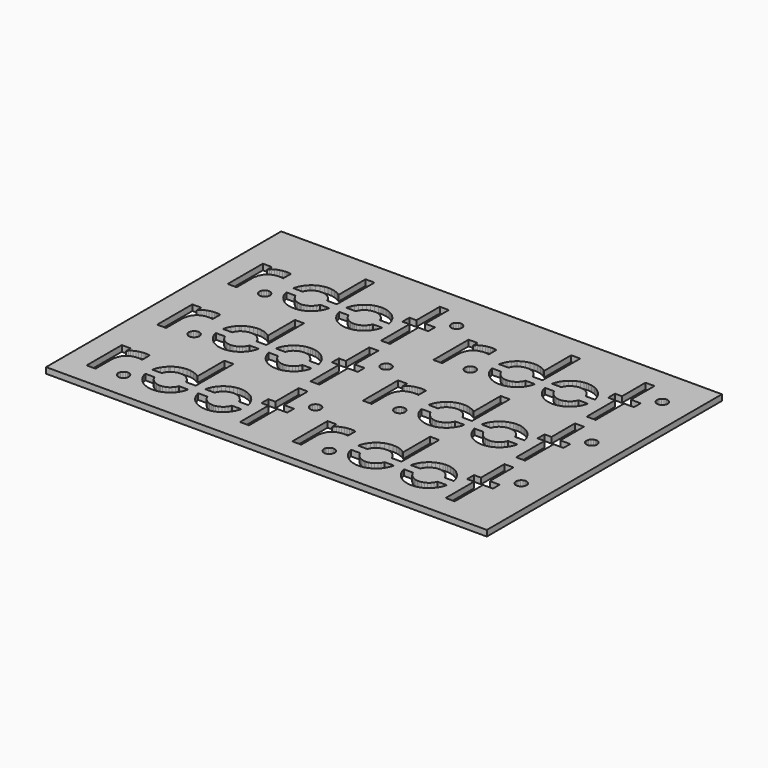
from build123d import *

# Parameters (mm, degrees)
F0_W     = 150
F0_H     = 100
F1_DEPTH = 2


with BuildPart() as f1:
    # F0 (on Top) → F1 (new body)
    with BuildSketch(Plane.XY):
        with Locations((35, 30)):
            Rectangle(F0_W, F0_H)
        Polygon((-19.297476, -10.472411), (-19.297476, -10.64914), (-19.297476, -10.825877), (-19.440179, -11.356072), (-19.829512, -11.933215), (-20.406661, -12.32254), (-20.936788, -12.465257), (-21.113157, -12.465257), (-21.289934, -12.465257), (-21.820061, -12.32254), (-22.397279, -11.933215), (-22.786611, -11.356072), (-22.928906, -10.825877), (-22.928906, -10.64914), (-22.928906, -10.472411), (-22.786611, -9.942222), (-22.397279, -9.365072), (-21.820061, -8.975747), (-21.289934, -8.833398), (-21.113157, -8.833398), (-20.936788, -8.833398), (-20.406661, -8.975747), (-19.829512, -9.365072), (-19.440179, -9.942222), align=None, mode=Mode.SUBTRACT)
        Polygon((-16.877523, -7.176272), (-17.023821, -6.500013), (-13.906778, -6.500013), (-13.826582, -6.693412), (-13.702347, -6.993627), (-13.149254, -7.819975), (-12.193812, -8.682926), (-11.030653, -9.235665), (-10.055653, -9.430515), (-9.73038, -9.430515), (-9.73113, -9.426822), (-9.508148, -9.426822), (-8.83818, -9.3366), (-8.00595, -9.078535), (-7.253182, -8.670353), (-6.596844, -8.129438), (-6.055267, -7.473536), (-5.646308, -6.721135), (-5.577419, -6.500013), (-2.428586, -6.500013), (-2.682598, -7.475389), (-3.187987, -8.601584), (-3.867155, -9.623887), (-4.704223, -10.521593), (-5.682904, -11.273987), (-6.78691, -11.860746), (-7.69015, -12.187586), (-7.999681, -12.261534), (-8.309075, -12.335107), (-9.262949, -12.450469), (-10.512997, -12.424586), (-11.725768, -12.193876), (-12.877478, -11.770163), (-13.944888, -11.163804), (-14.903601, -10.386271), (-15.730243, -9.448629), (-16.257576, -8.645588), (-16.400551, -8.361633), (-16.544072, -8.077304), align=None, mode=Mode.SUBTRACT)
        Polygon((-22.698291, 2.438883), (-22.698291, -0.774796), (-22.811009, -0.745561), (-23.38332, -0.646814), (-23.963059, -0.611717), (-24.079184, -0.614375), (-24.348303, -0.614375), (-25.155454, -0.694518), (-26.134489, -0.938557), (-27.001869, -1.349697), (-27.743182, -1.931686), (-28.344729, -2.687793), (-28.792103, -3.622791), (-29.070878, -4.739404), (-29.166634, -5.716211), (-29.166634, -6.04194), (-29.166634, -12.494833), (-32.205076, -12.494833), (-32.205076, 2.471458), (-29.166634, 2.471458), (-29.166634, 0.520025), (-29.102683, 0.651279), (-28.8361, 1.008786), (-28.367286, 1.437645), (-27.7857, 1.80517), (-27.116863, 2.109862), (-26.38627, 2.349813), (-25.619456, 2.523182), (-24.841902, 2.62854), (-24.269932, 2.663705), (-24.079184, 2.663705), (-23.891708, 2.663705), (-23.329346, 2.611912), (-22.795062, 2.479227), align=None, mode=Mode.SUBTRACT)
        Polygon((-5.296161, 12.499987), (-2.224095, 12.499987), (-2.255947, -3.500013), (-5.584221, -3.500013), (-6.043818, -2.532823), (-6.907124, -1.57745), (-7.733424, -1.024356), (-8.033618, -0.900122), (-8.33429, -0.775546), (-9.309563, -0.582209), (-10.595457, -0.647563), (-11.808978, -1.079488), (-12.636028, -1.631082), (-12.865688, -1.861016), (-13.095553, -2.090608), (-13.647284, -2.917794), (-13.854469, -3.500013), (-17.052445, -3.500013), (-16.710831, -2.323948), (-16.176547, -1.211015), (-15.455604, -0.189469), (-14.796744, 0.509598), (-14.553454, 0.714794), (-14.310505, 0.920398), (-13.511532, 1.453592), (-12.383878, 1.993737), (-11.197822, 2.334684), (-9.978441, 2.475478), (-8.752449, 2.415576), (-7.546016, 2.153886), (-6.385379, 1.689454), (-5.5524, 1.210301), (-5.296161, 1.021394), align=None, mode=Mode.SUBTRACT)
        Polygon((1.244664, -7.496461), (0.970011, -6.500013), (4.110563, -6.500013), (4.189225, -6.689712), (4.31346, -6.989933), (4.866553, -7.816275), (5.822336, -8.679226), (6.985494, -9.231972), (7.960427, -9.426822), (8.285836, -9.426822), (8.509091, -9.426822), (9.179059, -9.3366), (10.011288, -9.078167), (10.764465, -8.669249), (11.420736, -8.127591), (11.962039, -7.471689), (12.37093, -6.718552), (12.438805, -6.500013), (15.584578, -6.500013), (15.429026, -7.183666), (15.033765, -8.200053), (14.498049, -9.143978), (13.831012, -10.000646), (13.043147, -10.754518), (12.144336, -11.391196), (11.402267, -11.789387), (11.144598, -11.896244), (10.886519, -12.002726), (10.080527, -12.246003), (8.994172, -12.431237), (7.903932, -12.455273), (6.826913, -12.32143), (5.780493, -12.032671), (4.782253, -11.593433), (3.850186, -11.007042), (3.198755, -10.473896), (3.001328, -10.276456), (2.803834, -10.078655), (2.270299, -9.42719), (1.68395, -8.494734), align=None, mode=Mode.SUBTRACT)
        Polygon((8.0067, 2.479227), (8.285836, 2.479227), (8.662288, 2.479227), (9.791373, 2.327596), (11.194142, 1.892059), (12.463067, 1.202941), (13.568845, 0.290433), (14.481012, -0.81514), (15.17013, -2.084406), (15.605395, -3.487107), (15.607131, -3.500013), (12.4332, -3.500013), (11.971989, -2.529143), (11.109092, -1.57377), (10.282792, -1.020676), (9.982529, -0.896442), (9.681926, -0.771866), (8.706585, -0.578461), (7.420623, -0.643883), (6.207239, -1.075808), (5.38012, -1.627811), (5.150528, -1.857676), (4.920527, -2.087337), (4.368524, -2.914387), (4.160137, -3.500013), (0.97959, -3.500013), (1.031359, -3.196522), (1.275059, -2.390461), (1.381915, -2.13286), (1.488704, -1.874713), (1.886623, -1.132644), (2.523607, -0.233834), (3.277875, 0.553622), (4.134161, 1.22066), (5.078018, 1.756375), (6.094453, 2.151637), (7.168882, 2.396017), align=None, mode=Mode.SUBTRACT)
        Polygon((19.982573, 12.499987), (23.05464, 12.499987), (23.05464, 2.444471), (26.407001, 2.444471), (26.407001, -0.419129), (23.05464, -0.419129), (23.05464, -12.500013), (19.982573, -12.500013), (19.982573, -0.419129), (17.607802, -0.419129), (17.607802, 2.513914), (19.982573, 2.513914), align=None, mode=Mode.SUBTRACT)
        Polygon((-22.795062, 32.479227), (-22.698291, 32.438883), (-22.698291, 29.225204), (-22.811009, 29.254439), (-23.38332, 29.353186), (-23.963059, 29.388283), (-24.079184, 29.385625), (-24.348303, 29.385625), (-25.155454, 29.305482), (-26.134489, 29.061443), (-27.001869, 28.650303), (-27.743182, 28.068314), (-28.344729, 27.312207), (-28.792103, 26.377209), (-29.070878, 25.260596), (-29.166634, 24.283789), (-29.166634, 23.95806), (-29.166634, 17.505167), (-32.205076, 17.505167), (-32.205076, 32.471458), (-29.166634, 32.471458), (-29.166634, 30.520025), (-29.102683, 30.651279), (-28.8361, 31.008786), (-28.367286, 31.437645), (-27.7857, 31.80517), (-27.116863, 32.109862), (-26.38627, 32.349813), (-25.619456, 32.523182), (-24.841902, 32.62854), (-24.269932, 32.663705), (-24.079184, 32.663705), (-23.891708, 32.663705), (-23.329346, 32.611912), align=None, mode=Mode.SUBTRACT)
        Polygon((-22.786611, 20.057778), (-22.397279, 20.634928), (-21.820061, 21.024253), (-21.289934, 21.166602), (-21.113157, 21.166602), (-20.936788, 21.166602), (-20.406661, 21.024253), (-19.829512, 20.634928), (-19.440179, 20.057778), (-19.297476, 19.527589), (-19.297476, 19.35086), (-19.297476, 19.174123), (-19.440179, 18.643928), (-19.829512, 18.066785), (-20.406661, 17.67746), (-20.936788, 17.534743), (-21.113157, 17.534743), (-21.289934, 17.534743), (-21.820061, 17.67746), (-22.397279, 18.066785), (-22.786611, 18.643928), (-22.928906, 19.174123), (-22.928906, 19.35086), (-22.928906, 19.527589), align=None, mode=Mode.SUBTRACT)
        Polygon((-5.646308, 23.278865), (-5.577419, 23.499987), (-2.428586, 23.499987), (-2.682598, 22.524611), (-3.187987, 21.398416), (-3.867155, 20.376113), (-4.704223, 19.478407), (-5.682904, 18.726013), (-6.78691, 18.139254), (-7.69015, 17.812414), (-7.999681, 17.738466), (-8.309075, 17.664893), (-9.262949, 17.549531), (-10.512997, 17.575414), (-11.725768, 17.806124), (-12.877478, 18.229837), (-13.944888, 18.836196), (-14.903601, 19.613729), (-15.730243, 20.551371), (-16.257576, 21.354412), (-16.400551, 21.638367), (-16.544072, 21.922696), (-16.877523, 22.823728), (-17.023821, 23.499987), (-13.906778, 23.499987), (-13.826582, 23.306588), (-13.702347, 23.006373), (-13.149254, 22.180025), (-12.193812, 21.317074), (-11.030653, 20.764335), (-10.055653, 20.569485), (-9.73038, 20.569485), (-9.73113, 20.573178), (-9.508148, 20.573178), (-8.83818, 20.6634), (-8.00595, 20.921465), (-7.253182, 21.329647), (-6.596844, 21.870562), (-6.055267, 22.526464), align=None, mode=Mode.SUBTRACT)
        Polygon((32.205076, 6.841685), (32.205076, 6.664976), (32.205076, 6.488131), (32.062373, 5.958003), (31.673109, 5.380785), (31.095891, 4.991521), (30.565763, 4.848818), (30.389327, 4.848818), (30.212618, 4.848818), (29.682491, 4.991521), (29.105273, 5.380785), (28.716009, 5.958003), (28.573646, 6.488131), (28.573646, 6.664976), (28.573646, 6.841685), (28.716009, 7.371812), (29.105273, 7.948962), (29.682491, 8.338294), (30.212618, 8.480657), (30.389327, 8.480657), (30.565763, 8.480657), (31.095891, 8.338294), (31.673109, 7.948962), (32.062373, 7.371812), align=None, mode=Mode.SUBTRACT)
        Polygon((1.244664, 22.503539), (0.970011, 23.499987), (4.110563, 23.499987), (4.189225, 23.310288), (4.31346, 23.010067), (4.866553, 22.183725), (5.822336, 21.320774), (6.985494, 20.768028), (7.960427, 20.573178), (8.285836, 20.573178), (8.509091, 20.573178), (9.179059, 20.6634), (10.011288, 20.921833), (10.764465, 21.330751), (11.420736, 21.872409), (11.962039, 22.528311), (12.37093, 23.281448), (12.438805, 23.499987), (15.584578, 23.499987), (15.429026, 22.816334), (15.033765, 21.799947), (14.498049, 20.856022), (13.831012, 19.999354), (13.043147, 19.245482), (12.144336, 18.608804), (11.402267, 18.210613), (11.144598, 18.103756), (10.886519, 17.997274), (10.080527, 17.753997), (8.994172, 17.568763), (7.903932, 17.544727), (6.826913, 17.67857), (5.780493, 17.967329), (4.782253, 18.406567), (3.850186, 18.992958), (3.198755, 19.526104), (3.001328, 19.723544), (2.803834, 19.921345), (2.270299, 20.57281), (1.68395, 21.505266), align=None, mode=Mode.SUBTRACT)
        Polygon((15.607131, 26.499987), (12.4332, 26.499987), (11.971989, 27.470857), (11.109092, 28.42623), (10.282792, 28.979324), (9.982529, 29.103558), (9.681926, 29.228134), (8.706585, 29.421539), (7.420623, 29.356117), (6.207239, 28.924192), (5.38012, 28.372189), (5.150528, 28.142324), (4.920527, 27.912663), (4.368524, 27.085613), (4.160137, 26.499987), (0.97959, 26.499987), (1.031359, 26.803478), (1.275059, 27.609539), (1.381915, 27.86714), (1.488704, 28.125287), (1.886623, 28.867356), (2.523607, 29.766166), (3.277875, 30.553622), (4.134161, 31.22066), (5.078018, 31.756375), (6.094453, 32.151637), (7.168882, 32.396017), (8.0067, 32.479227), (8.285836, 32.479227), (8.662288, 32.479227), (9.791373, 32.327596), (11.194142, 31.892059), (12.463067, 31.202941), (13.568845, 30.290433), (14.481012, 29.18486), (15.17013, 27.915594), (15.605395, 26.512893), align=None, mode=Mode.SUBTRACT)
        Polygon((19.982573, 17.499987), (19.982573, 29.580871), (17.607802, 29.580871), (17.607802, 32.513914), (19.982573, 32.513914), (19.982573, 42.499987), (23.05464, 42.499987), (23.05464, 32.444471), (26.407001, 32.444471), (26.407001, 29.580871), (23.05464, 29.580871), (23.05464, 17.499987), align=None, mode=Mode.SUBTRACT)
        Polygon((47.213389, -9.942222), (47.602721, -9.365072), (48.179939, -8.975747), (48.710066, -8.833398), (48.886843, -8.833398), (49.063212, -8.833398), (49.593339, -8.975747), (50.170488, -9.365072), (50.559821, -9.942222), (50.702524, -10.472411), (50.702524, -10.64914), (50.702524, -10.825877), (50.559821, -11.356072), (50.170488, -11.933215), (49.593339, -12.32254), (49.063212, -12.465257), (48.886843, -12.465257), (48.710066, -12.465257), (48.179939, -12.32254), (47.602721, -11.933215), (47.213389, -11.356072), (47.071094, -10.825877), (47.071094, -10.64914), (47.071094, -10.472411), align=None, mode=Mode.SUBTRACT)
        Polygon((64.353692, -6.721135), (64.422581, -6.500013), (67.571414, -6.500013), (67.317402, -7.475389), (66.812013, -8.601584), (66.132845, -9.623887), (65.295777, -10.521593), (64.317096, -11.273987), (63.21309, -11.860746), (62.30985, -12.187586), (62.000319, -12.261534), (61.690925, -12.335107), (60.737051, -12.450469), (59.487003, -12.424586), (58.274232, -12.193876), (57.122522, -11.770163), (56.055112, -11.163804), (55.096399, -10.386271), (54.269757, -9.448629), (53.742424, -8.645588), (53.599449, -8.361633), (53.455928, -8.077304), (53.122477, -7.176272), (52.976179, -6.500013), (56.093222, -6.500013), (56.173418, -6.693412), (56.297653, -6.993627), (56.850746, -7.819975), (57.806188, -8.682926), (58.969347, -9.235665), (59.944347, -9.430515), (60.26962, -9.430515), (60.26887, -9.426822), (60.491852, -9.426822), (61.16182, -9.3366), (61.99405, -9.078535), (62.746818, -8.670353), (63.403156, -8.129438), (63.944733, -7.473536), align=None, mode=Mode.SUBTRACT)
        Polygon((47.204938, 2.479227), (47.301709, 2.438883), (47.301709, -0.774796), (47.188991, -0.745561), (46.61668, -0.646814), (46.036941, -0.611717), (45.920816, -0.614375), (45.651697, -0.614375), (44.844546, -0.694518), (43.865511, -0.938557), (42.998131, -1.349697), (42.256818, -1.931686), (41.655271, -2.687793), (41.207897, -3.622791), (40.929122, -4.739404), (40.833366, -5.716211), (40.833366, -6.04194), (40.833366, -12.494833), (37.794924, -12.494833), (37.794924, 2.471458), (40.833366, 2.471458), (40.833366, 0.520025), (40.897317, 0.651279), (41.1639, 1.008786), (41.632714, 1.437645), (42.2143, 1.80517), (42.883137, 2.109862), (43.61373, 2.349813), (44.380544, 2.523182), (45.158098, 2.62854), (45.730068, 2.663705), (45.920816, 2.663705), (46.108292, 2.663705), (46.670654, 2.611912), align=None, mode=Mode.SUBTRACT)
        Polygon((56.145531, -3.500013), (52.947555, -3.500013), (53.289169, -2.323948), (53.823453, -1.211015), (54.544396, -0.189469), (55.203256, 0.509598), (55.446546, 0.714794), (55.689495, 0.920398), (56.488468, 1.453592), (57.616122, 1.993737), (58.802178, 2.334684), (60.021559, 2.475478), (61.247551, 2.415576), (62.453984, 2.153886), (63.614621, 1.689454), (64.4476, 1.210301), (64.703839, 1.021394), (64.703839, 12.499987), (67.775905, 12.499987), (67.744053, -3.500013), (64.415779, -3.500013), (63.956182, -2.532823), (63.092876, -1.57745), (62.266576, -1.024356), (61.966382, -0.900122), (61.66571, -0.775546), (60.690437, -0.582209), (59.404543, -0.647563), (58.191022, -1.079488), (57.363972, -1.631082), (57.134312, -1.861016), (56.904447, -2.090608), (56.352716, -2.917794), align=None, mode=Mode.SUBTRACT)
        Polygon((71.244664, -7.496461), (70.970011, -6.500013), (74.110563, -6.500013), (74.189225, -6.689712), (74.31346, -6.989933), (74.866553, -7.816275), (75.822336, -8.679226), (76.985494, -9.231972), (77.960427, -9.426822), (78.285836, -9.426822), (78.509091, -9.426822), (79.179059, -9.3366), (80.011288, -9.078167), (80.764465, -8.669249), (81.420736, -8.127591), (81.962039, -7.471689), (82.37093, -6.718552), (82.438805, -6.500013), (85.584578, -6.500013), (85.429026, -7.183666), (85.033765, -8.200053), (84.498049, -9.143978), (83.831012, -10.000646), (83.043147, -10.754518), (82.144336, -11.391196), (81.402267, -11.789387), (81.144598, -11.896244), (80.886519, -12.002726), (80.080527, -12.246003), (78.994172, -12.431237), (77.903932, -12.455273), (76.826913, -12.32143), (75.780493, -12.032671), (74.782253, -11.593433), (73.850186, -11.007042), (73.198755, -10.473896), (73.001328, -10.276456), (72.803834, -10.078655), (72.270299, -9.42719), (71.68395, -8.494734), align=None, mode=Mode.SUBTRACT)
        Polygon((85.607131, -3.500013), (82.4332, -3.500013), (81.971989, -2.529143), (81.109092, -1.57377), (80.282792, -1.020676), (79.982529, -0.896442), (79.681926, -0.771866), (78.706585, -0.578461), (77.420623, -0.643883), (76.207239, -1.075808), (75.38012, -1.627811), (75.150528, -1.857676), (74.920527, -2.087337), (74.368524, -2.914387), (74.160137, -3.500013), (70.97959, -3.500013), (71.031359, -3.196522), (71.275059, -2.390461), (71.381915, -2.13286), (71.488704, -1.874713), (71.886623, -1.132644), (72.523607, -0.233834), (73.277875, 0.553622), (74.134161, 1.22066), (75.078018, 1.756375), (76.094453, 2.151637), (77.168882, 2.396017), (78.0067, 2.479227), (78.285836, 2.479227), (78.662288, 2.479227), (79.791373, 2.327596), (81.194142, 1.892059), (82.463067, 1.202941), (83.568845, 0.290433), (84.481012, -0.81514), (85.17013, -2.084406), (85.605395, -3.487107), align=None, mode=Mode.SUBTRACT)
        Polygon((89.982573, -12.500013), (89.982573, -0.419129), (87.607802, -0.419129), (87.607802, 2.513914), (89.982573, 2.513914), (89.982573, 12.499987), (93.05464, 12.499987), (93.05464, 2.444471), (96.407001, 2.444471), (96.407001, -0.419129), (93.05464, -0.419129), (93.05464, -12.500013), align=None, mode=Mode.SUBTRACT)
        Polygon((47.213389, 20.057778), (47.602721, 20.634928), (48.179939, 21.024253), (48.710066, 21.166602), (48.886843, 21.166602), (49.063212, 21.166602), (49.593339, 21.024253), (50.170488, 20.634928), (50.559821, 20.057778), (50.702524, 19.527589), (50.702524, 19.35086), (50.702524, 19.174123), (50.559821, 18.643928), (50.170488, 18.066785), (49.593339, 17.67746), (49.063212, 17.534743), (48.886843, 17.534743), (48.710066, 17.534743), (48.179939, 17.67746), (47.602721, 18.066785), (47.213389, 18.643928), (47.071094, 19.174123), (47.071094, 19.35086), (47.071094, 19.527589), align=None, mode=Mode.SUBTRACT)
        Polygon((47.204938, 32.479227), (47.301709, 32.438883), (47.301709, 29.225204), (47.188991, 29.254439), (46.61668, 29.353186), (46.036941, 29.388283), (45.920816, 29.385625), (45.651697, 29.385625), (44.844546, 29.305482), (43.865511, 29.061443), (42.998131, 28.650303), (42.256818, 28.068314), (41.655271, 27.312207), (41.207897, 26.377209), (40.929122, 25.260596), (40.833366, 24.283789), (40.833366, 23.95806), (40.833366, 17.505167), (37.794924, 17.505167), (37.794924, 32.471458), (40.833366, 32.471458), (40.833366, 30.520025), (40.897317, 30.651279), (41.1639, 31.008786), (41.632714, 31.437645), (42.2143, 31.80517), (42.883137, 32.109862), (43.61373, 32.349813), (44.380544, 32.523182), (45.158098, 32.62854), (45.730068, 32.663705), (45.920816, 32.663705), (46.108292, 32.663705), (46.670654, 32.611912), align=None, mode=Mode.SUBTRACT)
        Polygon((64.353692, 23.278865), (64.422581, 23.499987), (67.571414, 23.499987), (67.317402, 22.524611), (66.812013, 21.398416), (66.132845, 20.376113), (65.295777, 19.478407), (64.317096, 18.726013), (63.21309, 18.139254), (62.30985, 17.812414), (62.000319, 17.738466), (61.690925, 17.664893), (60.737051, 17.549531), (59.487003, 17.575414), (58.274232, 17.806124), (57.122522, 18.229837), (56.055112, 18.836196), (55.096399, 19.613729), (54.269757, 20.551371), (53.742424, 21.354412), (53.599449, 21.638367), (53.455928, 21.922696), (53.122477, 22.823728), (52.976179, 23.499987), (56.093222, 23.499987), (56.173418, 23.306588), (56.297653, 23.006373), (56.850746, 22.180025), (57.806188, 21.317074), (58.969347, 20.764335), (59.944347, 20.569485), (60.26962, 20.569485), (60.26887, 20.573178), (60.491852, 20.573178), (61.16182, 20.6634), (61.99405, 20.921465), (62.746818, 21.329647), (63.403156, 21.870562), (63.944733, 22.526464), align=None, mode=Mode.SUBTRACT)
        Polygon((98.716009, 7.371812), (99.105273, 7.948962), (99.682491, 8.338294), (100.212618, 8.480657), (100.389327, 8.480657), (100.565763, 8.480657), (101.095891, 8.338294), (101.673109, 7.948962), (102.062373, 7.371812), (102.205076, 6.841685), (102.205076, 6.664976), (102.205076, 6.488131), (102.062373, 5.958003), (101.673109, 5.380785), (101.095891, 4.991521), (100.565763, 4.848818), (100.389327, 4.848818), (100.212618, 4.848818), (99.682491, 4.991521), (99.105273, 5.380785), (98.716009, 5.958003), (98.573646, 6.488131), (98.573646, 6.664976), (98.573646, 6.841685), align=None, mode=Mode.SUBTRACT)
        Polygon((71.244664, 22.503539), (70.970011, 23.499987), (74.110563, 23.499987), (74.189225, 23.310288), (74.31346, 23.010067), (74.866553, 22.183725), (75.822336, 21.320774), (76.985494, 20.768028), (77.960427, 20.573178), (78.285836, 20.573178), (78.509091, 20.573178), (79.179059, 20.6634), (80.011288, 20.921833), (80.764465, 21.330751), (81.420736, 21.872409), (81.962039, 22.528311), (82.37093, 23.281448), (82.438805, 23.499987), (85.584578, 23.499987), (85.429026, 22.816334), (85.033765, 21.799947), (84.498049, 20.856022), (83.831012, 19.999354), (83.043147, 19.245482), (82.144336, 18.608804), (81.402267, 18.210613), (81.144598, 18.103756), (80.886519, 17.997274), (80.080527, 17.753997), (78.994172, 17.568763), (77.903932, 17.544727), (76.826913, 17.67857), (75.780493, 17.967329), (74.782253, 18.406567), (73.850186, 18.992958), (73.198755, 19.526104), (73.001328, 19.723544), (72.803834, 19.921345), (72.270299, 20.57281), (71.68395, 21.505266), align=None, mode=Mode.SUBTRACT)
        Polygon((85.607131, 26.499987), (82.4332, 26.499987), (81.971989, 27.470857), (81.109092, 28.42623), (80.282792, 28.979324), (79.982529, 29.103558), (79.681926, 29.228134), (78.706585, 29.421539), (77.420623, 29.356117), (76.207239, 28.924192), (75.38012, 28.372189), (75.150528, 28.142324), (74.920527, 27.912663), (74.368524, 27.085613), (74.160137, 26.499987), (70.97959, 26.499987), (71.031359, 26.803478), (71.275059, 27.609539), (71.381915, 27.86714), (71.488704, 28.125287), (71.886623, 28.867356), (72.523607, 29.766166), (73.277875, 30.553622), (74.134161, 31.22066), (75.078018, 31.756375), (76.094453, 32.151637), (77.168882, 32.396017), (78.0067, 32.479227), (78.285836, 32.479227), (78.662288, 32.479227), (79.791373, 32.327596), (81.194142, 31.892059), (82.463067, 31.202941), (83.568845, 30.290433), (84.481012, 29.18486), (85.17013, 27.915594), (85.605395, 26.512893), align=None, mode=Mode.SUBTRACT)
        Polygon((89.982573, 17.499987), (89.982573, 29.580871), (87.607802, 29.580871), (87.607802, 32.513914), (89.982573, 32.513914), (89.982573, 42.499987), (93.05464, 42.499987), (93.05464, 32.444471), (96.407001, 32.444471), (96.407001, 29.580871), (93.05464, 29.580871), (93.05464, 17.499987), align=None, mode=Mode.SUBTRACT)
        Polygon((-13.854469, 26.499987), (-17.052445, 26.499987), (-16.710831, 27.676052), (-16.176547, 28.788985), (-15.455604, 29.810531), (-14.796744, 30.509598), (-14.553454, 30.714794), (-14.310505, 30.920398), (-13.511532, 31.453592), (-12.383878, 31.993737), (-11.197822, 32.334684), (-9.978441, 32.475478), (-8.752449, 32.415576), (-7.546016, 32.153886), (-6.385379, 31.689454), (-5.5524, 31.210301), (-5.296161, 31.021394), (-5.296161, 42.499987), (-2.224095, 42.499987), (-2.255947, 26.499987), (-5.584221, 26.499987), (-6.043818, 27.467177), (-6.907124, 28.42255), (-7.733424, 28.975644), (-8.033618, 29.099878), (-8.33429, 29.224454), (-9.309563, 29.417791), (-10.595457, 29.352437), (-11.808978, 28.920512), (-12.636028, 28.368918), (-12.865688, 28.138984), (-13.095553, 27.909392), (-13.647284, 27.082206), align=None, mode=Mode.SUBTRACT)
        Polygon((-22.786611, 50.057778), (-22.397279, 50.634928), (-21.820061, 51.024253), (-21.289934, 51.166602), (-21.113157, 51.166602), (-20.936788, 51.166602), (-20.406661, 51.024253), (-19.829512, 50.634928), (-19.440179, 50.057778), (-19.297476, 49.527589), (-19.297476, 49.35086), (-19.297476, 49.174123), (-19.440179, 48.643928), (-19.829512, 48.066785), (-20.406661, 47.67746), (-20.936788, 47.534743), (-21.113157, 47.534743), (-21.289934, 47.534743), (-21.820061, 47.67746), (-22.397279, 48.066785), (-22.786611, 48.643928), (-22.928906, 49.174123), (-22.928906, 49.35086), (-22.928906, 49.527589), align=None, mode=Mode.SUBTRACT)
        Polygon((-5.646308, 53.278865), (-5.577419, 53.499987), (-2.428586, 53.499987), (-2.682598, 52.524611), (-3.187987, 51.398416), (-3.867155, 50.376113), (-4.704223, 49.478407), (-5.682904, 48.726013), (-6.78691, 48.139254), (-7.69015, 47.812414), (-7.999681, 47.738466), (-8.309075, 47.664893), (-9.262949, 47.549531), (-10.512997, 47.575414), (-11.725768, 47.806124), (-12.877478, 48.229837), (-13.944888, 48.836196), (-14.903601, 49.613729), (-15.730243, 50.551371), (-16.257576, 51.354412), (-16.400551, 51.638367), (-16.544072, 51.922696), (-16.877523, 52.823728), (-17.023821, 53.499987), (-13.906778, 53.499987), (-13.826582, 53.306588), (-13.702347, 53.006373), (-13.149254, 52.180025), (-12.193812, 51.317074), (-11.030653, 50.764335), (-10.055653, 50.569485), (-9.73038, 50.569485), (-9.73113, 50.573178), (-9.508148, 50.573178), (-8.83818, 50.6634), (-8.00595, 50.921465), (-7.253182, 51.329647), (-6.596844, 51.870562), (-6.055267, 52.526464), align=None, mode=Mode.SUBTRACT)
        Polygon((28.716009, 37.371812), (29.105273, 37.948962), (29.682491, 38.338294), (30.212618, 38.480657), (30.389327, 38.480657), (30.565763, 38.480657), (31.095891, 38.338294), (31.673109, 37.948962), (32.062373, 37.371812), (32.205076, 36.841685), (32.205076, 36.664976), (32.205076, 36.488131), (32.062373, 35.958003), (31.673109, 35.380785), (31.095891, 34.991521), (30.565763, 34.848818), (30.389327, 34.848818), (30.212618, 34.848818), (29.682491, 34.991521), (29.105273, 35.380785), (28.716009, 35.958003), (28.573646, 36.488131), (28.573646, 36.664976), (28.573646, 36.841685), align=None, mode=Mode.SUBTRACT)
        Polygon((1.244664, 52.503539), (0.970011, 53.499987), (4.110563, 53.499987), (4.189225, 53.310288), (4.31346, 53.010067), (4.866553, 52.183725), (5.822336, 51.320774), (6.985494, 50.768028), (7.960427, 50.573178), (8.285836, 50.573178), (8.509091, 50.573178), (9.179059, 50.6634), (10.011288, 50.921833), (10.764465, 51.330751), (11.420736, 51.872409), (11.962039, 52.528311), (12.37093, 53.281448), (12.438805, 53.499987), (15.584578, 53.499987), (15.429026, 52.816334), (15.033765, 51.799947), (14.498049, 50.856022), (13.831012, 49.999354), (13.043147, 49.245482), (12.144336, 48.608804), (11.402267, 48.210613), (11.144598, 48.103756), (10.886519, 47.997274), (10.080527, 47.753997), (8.994172, 47.568763), (7.903932, 47.544727), (6.826913, 47.67857), (5.780493, 47.967329), (4.782253, 48.406567), (3.850186, 48.992958), (3.198755, 49.526104), (3.001328, 49.723544), (2.803834, 49.921345), (2.270299, 50.57281), (1.68395, 51.505266), align=None, mode=Mode.SUBTRACT)
        Polygon((-22.795062, 62.479227), (-22.698291, 62.438883), (-22.698291, 59.225204), (-22.811009, 59.254439), (-23.38332, 59.353186), (-23.963059, 59.388283), (-24.079184, 59.385625), (-24.348303, 59.385625), (-25.155454, 59.305482), (-26.134489, 59.061443), (-27.001869, 58.650303), (-27.743182, 58.068314), (-28.344729, 57.312207), (-28.792103, 56.377209), (-29.070878, 55.260596), (-29.166634, 54.283789), (-29.166634, 53.95806), (-29.166634, 47.505167), (-32.205076, 47.505167), (-32.205076, 62.471458), (-29.166634, 62.471458), (-29.166634, 60.520025), (-29.102683, 60.651279), (-28.8361, 61.008786), (-28.367286, 61.437645), (-27.7857, 61.80517), (-27.116863, 62.109862), (-26.38627, 62.349813), (-25.619456, 62.523182), (-24.841902, 62.62854), (-24.269932, 62.663705), (-24.079184, 62.663705), (-23.891708, 62.663705), (-23.329346, 62.611912), align=None, mode=Mode.SUBTRACT)
        Polygon((-13.854469, 56.499987), (-17.052445, 56.499987), (-16.710831, 57.676052), (-16.176547, 58.788985), (-15.455604, 59.810531), (-14.796744, 60.509598), (-14.553454, 60.714794), (-14.310505, 60.920398), (-13.511532, 61.453592), (-12.383878, 61.993737), (-11.197822, 62.334684), (-9.978441, 62.475478), (-8.752449, 62.415576), (-7.546016, 62.153886), (-6.385379, 61.689454), (-5.5524, 61.210301), (-5.296161, 61.021394), (-5.296161, 72.499987), (-2.224095, 72.499987), (-2.255947, 56.499987), (-5.584221, 56.499987), (-6.043818, 57.467177), (-6.907124, 58.42255), (-7.733424, 58.975644), (-8.033618, 59.099878), (-8.33429, 59.224454), (-9.309563, 59.417791), (-10.595457, 59.352437), (-11.808978, 58.920512), (-12.636028, 58.368918), (-12.865688, 58.138984), (-13.095553, 57.909392), (-13.647284, 57.082206), align=None, mode=Mode.SUBTRACT)
        Polygon((15.607131, 56.499987), (12.4332, 56.499987), (11.971989, 57.470857), (11.109092, 58.42623), (10.282792, 58.979324), (9.982529, 59.103558), (9.681926, 59.228134), (8.706585, 59.421539), (7.420623, 59.356117), (6.207239, 58.924192), (5.38012, 58.372189), (5.150528, 58.142324), (4.920527, 57.912663), (4.368524, 57.085613), (4.160137, 56.499987), (0.97959, 56.499987), (1.031359, 56.803478), (1.275059, 57.609539), (1.381915, 57.86714), (1.488704, 58.125287), (1.886623, 58.867356), (2.523607, 59.766166), (3.277875, 60.553622), (4.134161, 61.22066), (5.078018, 61.756375), (6.094453, 62.151637), (7.168882, 62.396017), (8.0067, 62.479227), (8.285836, 62.479227), (8.662288, 62.479227), (9.791373, 62.327596), (11.194142, 61.892059), (12.463067, 61.202941), (13.568845, 60.290433), (14.481012, 59.18486), (15.17013, 57.915594), (15.605395, 56.512893), align=None, mode=Mode.SUBTRACT)
        Polygon((19.982573, 47.499987), (19.982573, 59.580871), (17.607802, 59.580871), (17.607802, 62.513914), (19.982573, 62.513914), (19.982573, 72.499987), (23.05464, 72.499987), (23.05464, 62.444471), (26.407001, 62.444471), (26.407001, 59.580871), (23.05464, 59.580871), (23.05464, 47.499987), align=None, mode=Mode.SUBTRACT)
        Polygon((28.716009, 67.371812), (29.105273, 67.948962), (29.682491, 68.338294), (30.212618, 68.480657), (30.389327, 68.480657), (30.565763, 68.480657), (31.095891, 68.338294), (31.673109, 67.948962), (32.062373, 67.371812), (32.205076, 66.841685), (32.205076, 66.664976), (32.205076, 66.488131), (32.062373, 65.958003), (31.673109, 65.380785), (31.095891, 64.991521), (30.565763, 64.848818), (30.389327, 64.848818), (30.212618, 64.848818), (29.682491, 64.991521), (29.105273, 65.380785), (28.716009, 65.958003), (28.573646, 66.488131), (28.573646, 66.664976), (28.573646, 66.841685), align=None, mode=Mode.SUBTRACT)
        Polygon((56.145531, 26.499987), (52.947555, 26.499987), (53.289169, 27.676052), (53.823453, 28.788985), (54.544396, 29.810531), (55.203256, 30.509598), (55.446546, 30.714794), (55.689495, 30.920398), (56.488468, 31.453592), (57.616122, 31.993737), (58.802178, 32.334684), (60.021559, 32.475478), (61.247551, 32.415576), (62.453984, 32.153886), (63.614621, 31.689454), (64.4476, 31.210301), (64.703839, 31.021394), (64.703839, 42.499987), (67.775905, 42.499987), (67.744053, 26.499987), (64.415779, 26.499987), (63.956182, 27.467177), (63.092876, 28.42255), (62.266576, 28.975644), (61.966382, 29.099878), (61.66571, 29.224454), (60.690437, 29.417791), (59.404543, 29.352437), (58.191022, 28.920512), (57.363972, 28.368918), (57.134312, 28.138984), (56.904447, 27.909392), (56.352716, 27.082206), align=None, mode=Mode.SUBTRACT)
        Polygon((47.213389, 50.057778), (47.602721, 50.634928), (48.179939, 51.024253), (48.710066, 51.166602), (48.886843, 51.166602), (49.063212, 51.166602), (49.593339, 51.024253), (50.170488, 50.634928), (50.559821, 50.057778), (50.702524, 49.527589), (50.702524, 49.35086), (50.702524, 49.174123), (50.559821, 48.643928), (50.170488, 48.066785), (49.593339, 47.67746), (49.063212, 47.534743), (48.886843, 47.534743), (48.710066, 47.534743), (48.179939, 47.67746), (47.602721, 48.066785), (47.213389, 48.643928), (47.071094, 49.174123), (47.071094, 49.35086), (47.071094, 49.527589), align=None, mode=Mode.SUBTRACT)
        Polygon((64.353692, 53.278865), (64.422581, 53.499987), (67.571414, 53.499987), (67.317402, 52.524611), (66.812013, 51.398416), (66.132845, 50.376113), (65.295777, 49.478407), (64.317096, 48.726013), (63.21309, 48.139254), (62.30985, 47.812414), (62.000319, 47.738466), (61.690925, 47.664893), (60.737051, 47.549531), (59.487003, 47.575414), (58.274232, 47.806124), (57.122522, 48.229837), (56.055112, 48.836196), (55.096399, 49.613729), (54.269757, 50.551371), (53.742424, 51.354412), (53.599449, 51.638367), (53.455928, 51.922696), (53.122477, 52.823728), (52.976179, 53.499987), (56.093222, 53.499987), (56.173418, 53.306588), (56.297653, 53.006373), (56.850746, 52.180025), (57.806188, 51.317074), (58.969347, 50.764335), (59.944347, 50.569485), (60.26962, 50.569485), (60.26887, 50.573178), (60.491852, 50.573178), (61.16182, 50.6634), (61.99405, 50.921465), (62.746818, 51.329647), (63.403156, 51.870562), (63.944733, 52.526464), align=None, mode=Mode.SUBTRACT)
        Polygon((98.716009, 37.371812), (99.105273, 37.948962), (99.682491, 38.338294), (100.212618, 38.480657), (100.389327, 38.480657), (100.565763, 38.480657), (101.095891, 38.338294), (101.673109, 37.948962), (102.062373, 37.371812), (102.205076, 36.841685), (102.205076, 36.664976), (102.205076, 36.488131), (102.062373, 35.958003), (101.673109, 35.380785), (101.095891, 34.991521), (100.565763, 34.848818), (100.389327, 34.848818), (100.212618, 34.848818), (99.682491, 34.991521), (99.105273, 35.380785), (98.716009, 35.958003), (98.573646, 36.488131), (98.573646, 36.664976), (98.573646, 36.841685), align=None, mode=Mode.SUBTRACT)
        Polygon((71.244664, 52.503539), (70.970011, 53.499987), (74.110563, 53.499987), (74.189225, 53.310288), (74.31346, 53.010067), (74.866553, 52.183725), (75.822336, 51.320774), (76.985494, 50.768028), (77.960427, 50.573178), (78.285836, 50.573178), (78.509091, 50.573178), (79.179059, 50.6634), (80.011288, 50.921833), (80.764465, 51.330751), (81.420736, 51.872409), (81.962039, 52.528311), (82.37093, 53.281448), (82.438805, 53.499987), (85.584578, 53.499987), (85.429026, 52.816334), (85.033765, 51.799947), (84.498049, 50.856022), (83.831012, 49.999354), (83.043147, 49.245482), (82.144336, 48.608804), (81.402267, 48.210613), (81.144598, 48.103756), (80.886519, 47.997274), (80.080527, 47.753997), (78.994172, 47.568763), (77.903932, 47.544727), (76.826913, 47.67857), (75.780493, 47.967329), (74.782253, 48.406567), (73.850186, 48.992958), (73.198755, 49.526104), (73.001328, 49.723544), (72.803834, 49.921345), (72.270299, 50.57281), (71.68395, 51.505266), align=None, mode=Mode.SUBTRACT)
        Polygon((47.204938, 62.479227), (47.301709, 62.438883), (47.301709, 59.225204), (47.188991, 59.254439), (46.61668, 59.353186), (46.036941, 59.388283), (45.920816, 59.385625), (45.651697, 59.385625), (44.844546, 59.305482), (43.865511, 59.061443), (42.998131, 58.650303), (42.256818, 58.068314), (41.655271, 57.312207), (41.207897, 56.377209), (40.929122, 55.260596), (40.833366, 54.283789), (40.833366, 53.95806), (40.833366, 47.505167), (37.794924, 47.505167), (37.794924, 62.471458), (40.833366, 62.471458), (40.833366, 60.520025), (40.897317, 60.651279), (41.1639, 61.008786), (41.632714, 61.437645), (42.2143, 61.80517), (42.883137, 62.109862), (43.61373, 62.349813), (44.380544, 62.523182), (45.158098, 62.62854), (45.730068, 62.663705), (45.920816, 62.663705), (46.108292, 62.663705), (46.670654, 62.611912), align=None, mode=Mode.SUBTRACT)
        Polygon((56.145531, 56.499987), (52.947555, 56.499987), (53.289169, 57.676052), (53.823453, 58.788985), (54.544396, 59.810531), (55.203256, 60.509598), (55.446546, 60.714794), (55.689495, 60.920398), (56.488468, 61.453592), (57.616122, 61.993737), (58.802178, 62.334684), (60.021559, 62.475478), (61.247551, 62.415576), (62.453984, 62.153886), (63.614621, 61.689454), (64.4476, 61.210301), (64.703839, 61.021394), (64.703839, 72.499987), (67.775905, 72.499987), (67.744053, 56.499987), (64.415779, 56.499987), (63.956182, 57.467177), (63.092876, 58.42255), (62.266576, 58.975644), (61.966382, 59.099878), (61.66571, 59.224454), (60.690437, 59.417791), (59.404543, 59.352437), (58.191022, 58.920512), (57.363972, 58.368918), (57.134312, 58.138984), (56.904447, 57.909392), (56.352716, 57.082206), align=None, mode=Mode.SUBTRACT)
        Polygon((85.607131, 56.499987), (82.4332, 56.499987), (81.971989, 57.470857), (81.109092, 58.42623), (80.282792, 58.979324), (79.982529, 59.103558), (79.681926, 59.228134), (78.706585, 59.421539), (77.420623, 59.356117), (76.207239, 58.924192), (75.38012, 58.372189), (75.150528, 58.142324), (74.920527, 57.912663), (74.368524, 57.085613), (74.160137, 56.499987), (70.97959, 56.499987), (71.031359, 56.803478), (71.275059, 57.609539), (71.381915, 57.86714), (71.488704, 58.125287), (71.886623, 58.867356), (72.523607, 59.766166), (73.277875, 60.553622), (74.134161, 61.22066), (75.078018, 61.756375), (76.094453, 62.151637), (77.168882, 62.396017), (78.0067, 62.479227), (78.285836, 62.479227), (78.662288, 62.479227), (79.791373, 62.327596), (81.194142, 61.892059), (82.463067, 61.202941), (83.568845, 60.290433), (84.481012, 59.18486), (85.17013, 57.915594), (85.605395, 56.512893), align=None, mode=Mode.SUBTRACT)
        Polygon((89.982573, 47.499987), (89.982573, 59.580871), (87.607802, 59.580871), (87.607802, 62.513914), (89.982573, 62.513914), (89.982573, 72.499987), (93.05464, 72.499987), (93.05464, 62.444471), (96.407001, 62.444471), (96.407001, 59.580871), (93.05464, 59.580871), (93.05464, 47.499987), align=None, mode=Mode.SUBTRACT)
        Polygon((98.716009, 67.371812), (99.105273, 67.948962), (99.682491, 68.338294), (100.212618, 68.480657), (100.389327, 68.480657), (100.565763, 68.480657), (101.095891, 68.338294), (101.673109, 67.948962), (102.062373, 67.371812), (102.205076, 66.841685), (102.205076, 66.664976), (102.205076, 66.488131), (102.062373, 65.958003), (101.673109, 65.380785), (101.095891, 64.991521), (100.565763, 64.848818), (100.389327, 64.848818), (100.212618, 64.848818), (99.682491, 64.991521), (99.105273, 65.380785), (98.716009, 65.958003), (98.573646, 66.488131), (98.573646, 66.664976), (98.573646, 66.841685), align=None, mode=Mode.SUBTRACT)
    extrude(amount=F1_DEPTH)


solid = f1.part
